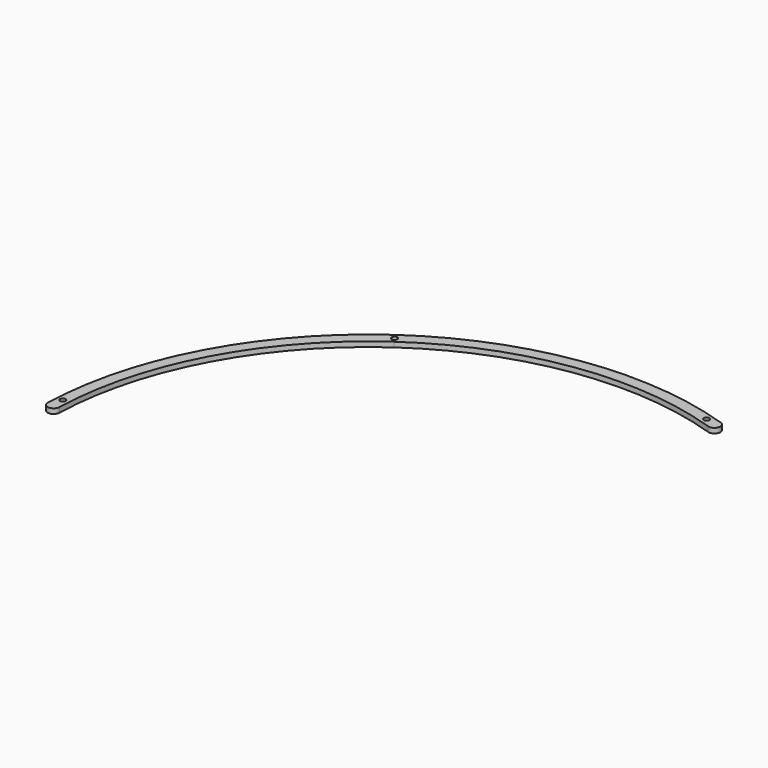
from build123d import *

# Parameters (mm, degrees)
PAD015_DEPTH                        = 3
SKETCH054_R                         = 1.65
POCKET018_DEPTH                     = 358.938883
POCKET018_DEPTH_BACK                = 361.938883
BODY001003005003004_PLACEMENT_ANGLE = 60
CLONE007_PLACEMENT_ANGLE            = 25


with BuildPart() as part:
    # Sketch053 → Pad015 (new body)
    with BuildSketch(Plane.XY):
        with BuildLine():
            ThreePointArc((152.005097, 113.785532), (84.992984, 169.790723), (0, 189.875477))
            Line((0, 189.875477), (0, 196.875477))
            ThreePointArc((157.608957, 117.98038), (88.126358, 176.050273), (0, 196.875477))
            ThreePointArc((152.005097, 113.785532), (156.904451, 113.081026), (157.608957, 117.98038))
        make_face()
    pad015 = extrude(amount=PAD015_DEPTH)

    # Sketch054 → Pocket018 (cut, two sides)
    with BuildSketch(Plane.XY) as pocket018_sk:
        with Locations((150.82443, 121.020933)):
            Circle(SKETCH054_R)
        with BuildLine():
            ThreePointArc((0, 191.725477), (1.65, 193.375477), (0, 195.025477))
            Line((0, 191.725477), (0, 195.025477))
        make_face()
    pocket018 = extrude(amount=-POCKET018_DEPTH, mode=Mode.SUBTRACT) + extrude(pocket018_sk.sketch, amount=POCKET018_DEPTH_BACK, mode=Mode.SUBTRACT)

    # Mirrored020: Pad015, Pocket018 across Sketch053 V_Axis
    add(pad015.mirror(Plane(origin=(0, 0, 0), x_dir=(0, 0, 1), z_dir=(1, 0, 0))))
    add(pocket018.mirror(Plane(origin=(0, 0, 0), x_dir=(0, 0, 1), z_dir=(1, 0, 0))), mode=Mode.SUBTRACT)


with BuildPart() as part_1:
    # Body001003005003004 placement: moved
    add(part.part.rotate(Axis((0, 0, 0), (0, 0, 1)), BODY001003005003004_PLACEMENT_ANGLE))


with BuildPart() as part_2:
    # Clone007 placement: moved
    add(part_1.part.moved(Location((1071, 433, 0))).rotate(Axis((1071, 433, 0), (0, 0, -1)), CLONE007_PLACEMENT_ANGLE))


solid = part_2.part
